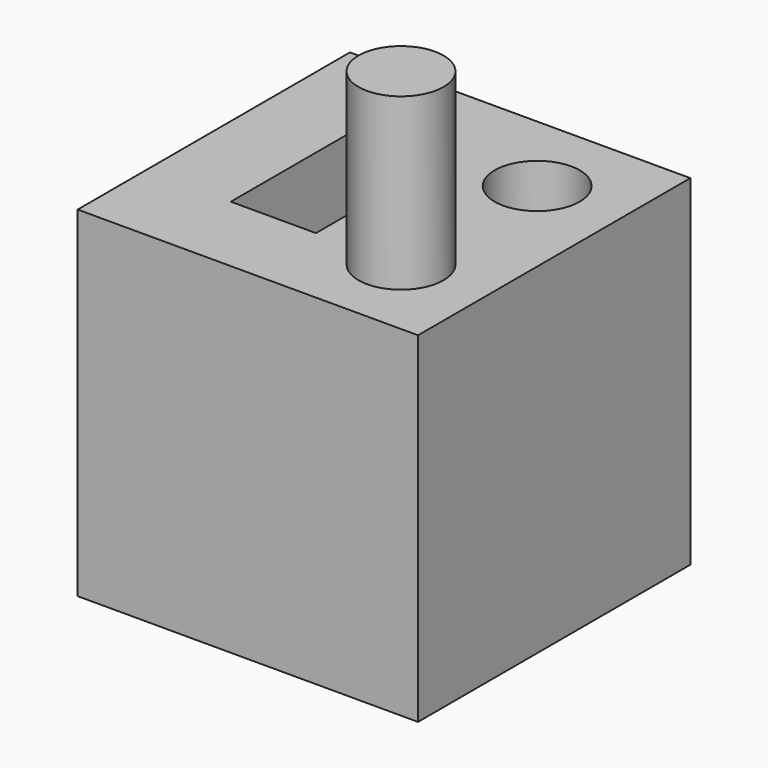
from build123d import *

# Parameters (mm, degrees)
F0_W     = 20
F0_H     = 20
F0_W_2   = 5
F0_H_2   = 10
F0_R     = 2.5
F1_DEPTH = 20
F2_R     = 2.5
F3_DEPTH = 10


with BuildPart() as f1:
    # F0 (on Top) → F1 (new body)
    with BuildSketch(Plane.XY):
        Rectangle(F0_W, F0_H)
        with Locations((-2.5, 0)):
            Rectangle(F0_W_2, F0_H_2, mode=Mode.SUBTRACT)
        with Locations((5, 5)):
            Circle(F0_R, mode=Mode.SUBTRACT)
    extrude(amount=F1_DEPTH)

    # F2 (on face) → F3 (join)
    with BuildSketch(Plane.XY.offset(20)):
        with Locations((5, -5)):
            Circle(F2_R)
    extrude(amount=F3_DEPTH)


solid = f1.part
